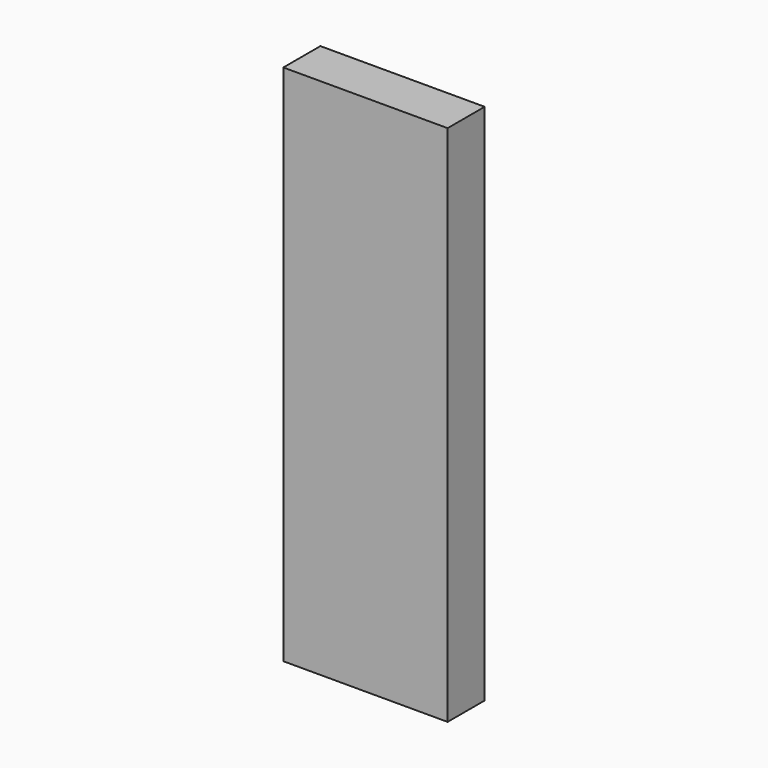
from build123d import *

# Parameters (mm, degrees)
F0_W      = 50
F0_H      = 26
F1_DEPTH  = 55
F3_DEPTH  = 45
F4_R      = 2
F5_R      = 2
F6_W      = 55
F6_H      = 31
F7_DEPTH  = 120
F9_DEPTH  = 110
F10_R     = 2
F11_W     = 193.8701719046
F11_H     = 235.1342812181
F12_DEPTH = 15.501
F13_R     = 3.75
F14_DEPTH = 3.5
F14_TAPER = 3
F15_DEPTH = 55


with BuildPart() as f1:
    # F0 (on Top) → F1 (new body)
    with BuildSketch(Plane.XY):
        Rectangle(F0_W, F0_H)
    extrude(amount=F1_DEPTH)

    # F2 (on face) → F3 (cut)
    with BuildSketch(Plane(origin=(0, 0, 0), x_dir=(1, 0, 0), z_dir=(0, 0, -1))):
        Polygon((-17.3603594806, -8), (17.3603594806, -8), (17.5, 0), (17.3603594806, 8), (-17.3603594806, 8), (-17.5, 0), align=None)
    extrude(amount=-F3_DEPTH, mode=Mode.SUBTRACT)

    # F4
    f4_edges = [f1.edges().sort_by_distance(p)[0] for p in [
        (-17.360359, 8, 22.5),
        (17.360359, 8, 22.5),
    ]]
    fillet(f4_edges, radius=F4_R)

    # F5
    f5_edges = [f1.edges().sort_by_distance(p)[0] for p in [
        (-17.360359, -8, 22.5),
        (17.360359, -8, 22.5),
    ]]
    fillet(f5_edges, radius=F5_R)

    # F6 (on face) → F7 (join)
    with BuildSketch(Plane(origin=(0, 0, 0), x_dir=(1, 0, 0), z_dir=(0, 0, -1))):
        Rectangle(F6_W, F6_H)
    extrude(amount=F7_DEPTH)

    # F8 (on face) → F9 (cut)
    with BuildSketch(Plane.XY):
        Polygon((-19.8167218183, 10.5), (-20, 0), (-19.8167218183, -10.5), (19.8167218183, -10.5), (20, 0), (19.8167218183, 10.5), align=None)
    extrude(amount=-F9_DEPTH, mode=Mode.SUBTRACT)

    # F10
    f10_edges = [f1.edges().sort_by_distance(p)[0] for p in [
        (-19.816722, -10.5, -55),
        (19.816722, -10.5, -55),
        (-19.816722, 10.5, -55),
        (19.816722, 10.5, -55),
    ]]
    fillet(f10_edges, radius=F10_R)

    # F11 (on Front) → F12 (cut, through all)
    with BuildSketch(Plane.XZ):
        with Locations((2.0464733243, -30.8961831033)):
            Rectangle(F11_W, F11_H)
    extrude(amount=-F12_DEPTH, mode=Mode.SUBTRACT)

    # F13 (on face) → F14 (cut)
    with BuildSketch(Plane(origin=(0, 0, 0), x_dir=(-1, 0, 0), z_dir=(0, 1, 0))):
        with Locations((0, 49.4391918182)):
            Circle(F13_R)
        with Locations((0, -114.7729158401)):
            Circle(F13_R)
    extrude(amount=-F14_DEPTH, taper=F14_TAPER, mode=Mode.SUBTRACT)

    # F15 (add, through all): a face of the model
    f15_faces = [f1.faces().sort_by_distance(p)[0] for p in [
        (-26.9285763393, -7.75, 0),
    ]]
    extrude(f15_faces, amount=F15_DEPTH)


solid = f1.part
